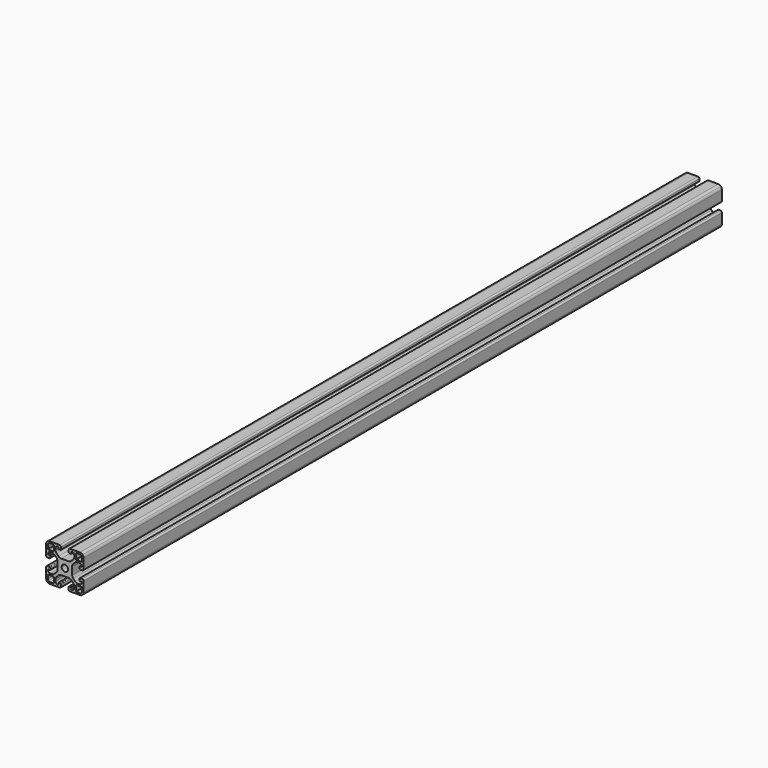
from build123d import *

# Parameters (mm, degrees)
PAD_DEPTH            = 849
PAD_MIRRORED_2_DEPTH = 849
POLARPATTERN_COUNT   = 4


with BuildPart() as part:
    # Sketch010 → Pad (new body)
    with BuildSketch(Plane.XZ):
        with BuildLine():
            Line((-2.404163, 2.404163), (-11.946447, 11.946447))
            ThreePointArc((-12.3, 11.8), (-12.108658, 11.83806), (-11.946447, 11.946447))
            Line((-17.7, 11.8), (-12.3, 11.8))
            ThreePointArc((-18.2, 12.3), (-18.053553, 11.946447), (-17.7, 11.8))
            Line((-18.2, 16), (-18.2, 12.3))
            ThreePointArc((-17.555635, 17.555635), (-18.032535, 16.841904), (-18.2, 16))
            Line((-17.555635, 17.555635), (-18.828427, 18.828427))
            ThreePointArc((-18.828427, 18.828427), (-19.695518, 17.530734), (-20, 16))
            Line((-20, 16), (-20, 5.5))
            ThreePointArc((-20, 5.5), (-19.56066, 4.43934), (-18.5, 4))
            Line((-18.5, 4), (-16.35, 4))
            ThreePointArc((-16.35, 4), (-15.784315, 4.234315), (-15.55, 4.8))
            Line((-15.55, 4.8), (-15.55, 6.5))
            ThreePointArc((-15.55, 6.5), (-15.696447, 6.853553), (-16.05, 7))
            Line((-16.05, 7), (-17.400832, 7))
            ThreePointArc((-18, 7.631579), (-17.836117, 7.187052), (-17.400832, 7))
            ThreePointArc((-15.503465, 10), (-17.224083, 9.313691), (-18, 7.631579))
            Line((-15.503465, 10), (-13.75, 10))
            ThreePointArc((-10.921573, 8.828427), (-12.219266, 9.695518), (-13.75, 10))
            Line((-10.921573, 8.828427), (-8.921573, 6.828427))
            ThreePointArc((-7.75, 4), (-8.054482, 5.530734), (-8.921573, 6.828427))
            Line((-7.75, 4), (-7.75, 0))
            Line((-7.75, 0), (-3.4, 0))
            ThreePointArc((-2.404163, 2.404163), (-3.14119, 1.301124), (-3.4, 0))
        make_face()
    pad = extrude(amount=PAD_DEPTH)

    # Sketch010 Mirrored 2 → Pad Mirrored 2 (add)
    with BuildSketch(Plane(origin=(0, 0, 0), x_dir=(1, 0, 0), z_dir=(0, 1, 0))):
        with BuildLine():
            Line((-2.404163, 2.404163), (-11.946447, 11.946447))
            ThreePointArc((-12.3, 11.8), (-12.108658, 11.83806), (-11.946447, 11.946447))
            Line((-17.7, 11.8), (-12.3, 11.8))
            ThreePointArc((-18.2, 12.3), (-18.053553, 11.946447), (-17.7, 11.8))
            Line((-18.2, 16), (-18.2, 12.3))
            ThreePointArc((-17.555635, 17.555635), (-18.032535, 16.841904), (-18.2, 16))
            Line((-17.555635, 17.555635), (-18.828427, 18.828427))
            ThreePointArc((-18.828427, 18.828427), (-19.695518, 17.530734), (-20, 16))
            Line((-20, 16), (-20, 5.5))
            ThreePointArc((-20, 5.5), (-19.56066, 4.43934), (-18.5, 4))
            Line((-18.5, 4), (-16.35, 4))
            ThreePointArc((-16.35, 4), (-15.784315, 4.234315), (-15.55, 4.8))
            Line((-15.55, 4.8), (-15.55, 6.5))
            ThreePointArc((-15.55, 6.5), (-15.696447, 6.853553), (-16.05, 7))
            Line((-16.05, 7), (-17.400832, 7))
            ThreePointArc((-18, 7.631579), (-17.836117, 7.187052), (-17.400832, 7))
            ThreePointArc((-15.503465, 10), (-17.224083, 9.313691), (-18, 7.631579))
            Line((-15.503465, 10), (-13.75, 10))
            ThreePointArc((-10.921573, 8.828427), (-12.219266, 9.695518), (-13.75, 10))
            Line((-10.921573, 8.828427), (-8.921573, 6.828427))
            ThreePointArc((-7.75, 4), (-8.054482, 5.530734), (-8.921573, 6.828427))
            Line((-7.75, 4), (-7.75, 0))
            Line((-7.75, 0), (-3.4, 0))
            ThreePointArc((-2.404163, 2.404163), (-3.14119, 1.301124), (-3.4, 0))
        make_face()
    pad_mirrored_2 = extrude(amount=-PAD_MIRRORED_2_DEPTH)

    # PolarPattern: Pad, Pad Mirrored 2 ×4 about axis
    polarpattern_axis = Axis((0, 0, 0), (0, -1, 0))
    for i in range(1, POLARPATTERN_COUNT):
        add(pad.rotate(polarpattern_axis, i * 360 / POLARPATTERN_COUNT))
        add(pad_mirrored_2.rotate(polarpattern_axis, i * 360 / POLARPATTERN_COUNT))


solid = part.part
